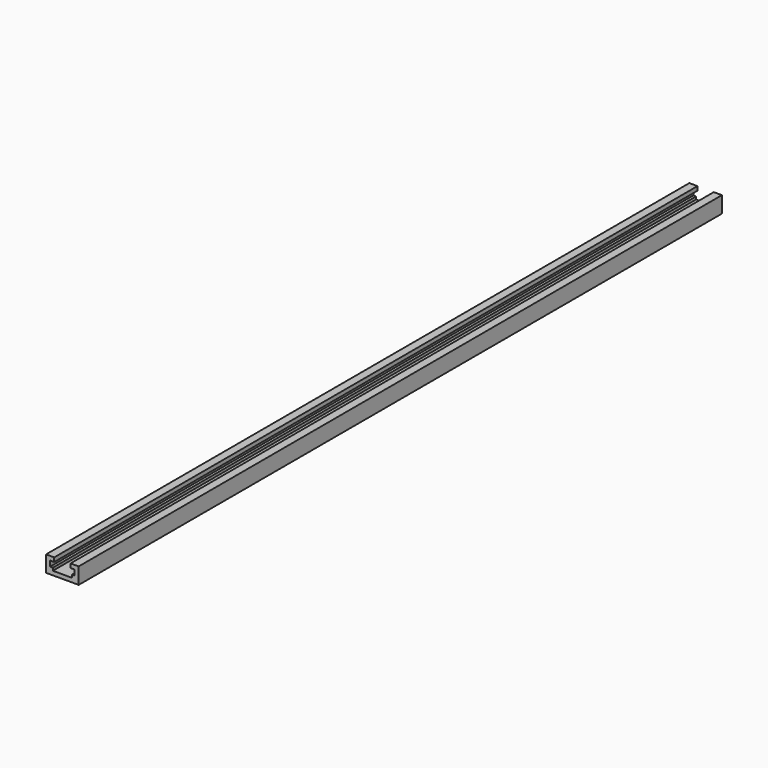
from build123d import *

# Parameters (mm, degrees)
SKETCH_W        = 19.05
SKETCH_H        = 9.525
PAD_DEPTH       = 469.9
SKETCH001_W     = 9.525
SKETCH001_H     = 2.38125
POCKET_DEPTH    = 469.901
SKETCH002_W     = 14.2875
SKETCH002_H     = 3.175
POCKET001_DEPTH = 469.901
SKETCH003_W     = 11.1125
SKETCH003_H     = 1.5875
POCKET002_DEPTH = 469.901


with BuildPart() as part:
    # Sketch → Pad (new body)
    with BuildSketch(Plane.XZ):
        Rectangle(SKETCH_W, SKETCH_H)
    extrude(amount=PAD_DEPTH)

    # Sketch001 (on Face6 of Pad) → Pocket (cut, through all)
    with BuildSketch(Plane.XZ.offset(469.9)):
        with Locations((0, 3.571875)):
            Rectangle(SKETCH001_W, SKETCH001_H)
    extrude(amount=-POCKET_DEPTH, mode=Mode.SUBTRACT)

    # Sketch002 (on Face5 of Pocket) → Pocket001 (cut, through all)
    with BuildSketch(Plane.XZ.offset(469.9)):
        with Locations((0, 0.79375)):
            Rectangle(SKETCH002_W, SKETCH002_H)
    extrude(amount=-POCKET001_DEPTH, mode=Mode.SUBTRACT)

    # Sketch003 (on Face5 of Pocket001) → Pocket002 (cut, through all)
    with BuildSketch(Plane.XZ.offset(469.9)):
        with Locations((0, -1.5875)):
            Rectangle(SKETCH003_W, SKETCH003_H)
    extrude(amount=-POCKET002_DEPTH, mode=Mode.SUBTRACT)


solid = part.part
